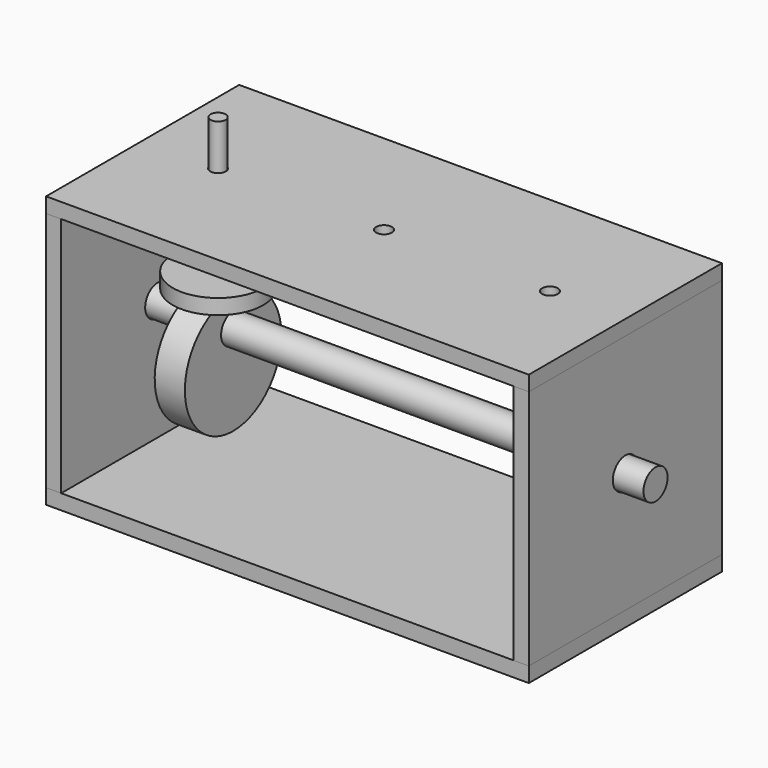
from build123d import *

# Parameters (mm, degrees)
F2_DEPTH      = 50.8
F3_DEPTH      = 50.8
F3_DEPTH_BACK = 50.8
F4_R          = 6.604
F4_R_2        = 6.35
F5_DEPTH      = 203.201
F6_DEPTH      = 12.7
F6_DEPTH_BACK = 203.2
F0_W          = 12.7
F0_H          = 25.4
F10_D         = 6.604
F12_R         = 3.175
F13_DEPTH     = 63.5
F12_R_2       = 19.05
F14_DEPTH     = 6.35


with BuildPart() as f2:
    # F0 (on Front) → F2 (new body, symmetric)
    with BuildSketch(Plane.XZ):
        Polygon((-95.25, 6.35), (-101.6, 6.35), (-101.6, 0), (101.6, 0), (101.6, 6.35), (95.25, 6.35), align=None)
    extrude(amount=F2_DEPTH, both=True)


with BuildPart() as f2b:
    # F0 (on Front) → F2, piece 2 (new body, symmetric)
    with BuildSketch(Plane.XZ):
        Polygon((-101.6, 114.3), (-101.6, 107.95), (-95.25, 107.95), (95.25, 107.95), (101.6, 107.95), (101.6, 114.3), align=None)
    extrude(amount=F2_DEPTH, both=True)

    # F10 (through all)
    with Locations(Plane.XY.offset(114.3)):
        with Locations((-69.85, 0), (0, 0), (69.85, 0)):
            Hole(F10_D / 2)


with BuildPart() as f3:
    # F0 (on Front) → F3 (new body, two sides)
    with BuildSketch(Plane.XZ) as f3_sk:
        Polygon((-101.6, 107.95), (-101.6, 6.35), (-95.25, 6.35), (-95.25, 57.15), (-95.25, 107.95), align=None)
    extrude(amount=F3_DEPTH)
    extrude(f3_sk.sketch, amount=-F3_DEPTH_BACK)


with BuildPart() as f3b:
    # F0 (on Front) → F3, piece 2 (new body, two sides)
    with BuildSketch(Plane.XZ) as f3_2_sk:
        Polygon((95.25, 57.15), (95.25, 6.35), (101.6, 6.35), (101.6, 107.95), (95.25, 107.95), align=None)
    extrude(amount=F3_DEPTH)
    extrude(f3_2_sk.sketch, amount=-F3_DEPTH_BACK)


with BuildPart() as f5_tool:
    # F4 (on face) → F5 (new body, through all)
    with BuildSketch(Plane.YZ.offset(101.6)):
        with Locations((0, 57.15)):
            Circle(F4_R)
        with Locations((0, 57.15)):
            Circle(F4_R_2, mode=Mode.SUBTRACT)
        with Locations((0, 57.15)):
            Circle(F4_R_2)
    extrude(amount=-F5_DEPTH)


with BuildPart() as f3_1:
    add(f3.part)

    # F5: cut by f5_tool
    add(f5_tool.part, mode=Mode.SUBTRACT)


with BuildPart() as f3b_1:
    add(f3b.part)

    # F5: cut by f5_tool
    add(f5_tool.part, mode=Mode.SUBTRACT)


with BuildPart() as f6:
    # F4 (on face) → F6 (new body, two sides)
    with BuildSketch(Plane.YZ.offset(101.6)) as f6_sk:
        with Locations((0, 57.15)):
            Circle(F4_R_2)
    extrude(amount=F6_DEPTH)
    extrude(f6_sk.sketch, amount=-F6_DEPTH_BACK)


with BuildPart() as f7:
    # F0 (on Front) → F7 (revolve)
    with BuildSketch(Plane.XZ):
        with Locations((-69.85, 31.75)):
            Rectangle(F0_W, F0_H)
    revolve(axis=Axis((-69.85, 0, 44.45), (1, 0, 0)))

    # F8: cut F6
    add(f6.part, mode=Mode.SUBTRACT)


with BuildPart() as f13:
    # F12 (on plane+point) → F13 (new body, through all)
    with BuildSketch(Plane.XY.offset(69.85)):
        with Locations((-69.85, 0)):
            Circle(F12_R)
    extrude(amount=F13_DEPTH)


with BuildPart() as f14:
    # F12 (on plane+point) → F14 (new body)
    with BuildSketch(Plane.XY.offset(69.85)):
        with Locations((-69.85, 0)):
            Circle(F12_R_2)
        with Locations((-69.85, 0)):
            Circle(F12_R, mode=Mode.SUBTRACT)
    extrude(amount=F14_DEPTH)


solid = Compound([f2.part, f2b.part, f3_1.part, f3b_1.part, f6.part, f7.part, f13.part, f14.part])
